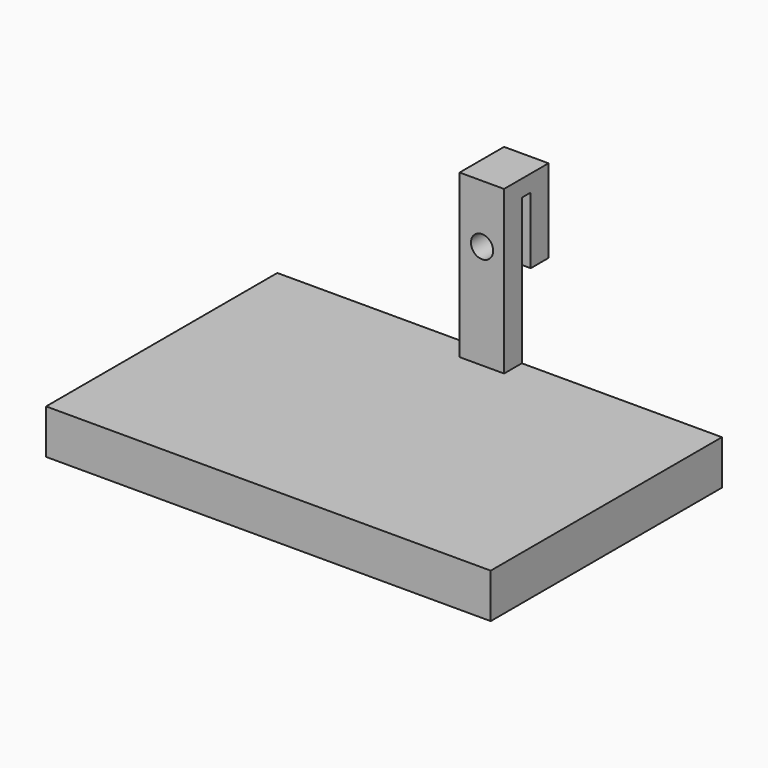
from build123d import *

# Parameters (mm, degrees)
F0_R      = 3.175
F1_DEPTH  = 6.35
F2_DEPTH  = 6.35
F3_DEPTH  = 9.525
F4_W      = 12.7
F4_H      = 6.35
F5_DEPTH  = 19.05
F6_DEPTH  = 25.4
F7_W      = 127
F7_H      = 12.7
F8_DEPTH  = 76.2
F9_W      = 114.3
F9_H      = 69.85
F10_DEPTH = 10.16


with BuildPart() as f1:
    # F0 (on Front) → F1 (new body)
    with BuildSketch(Plane.XZ):
        Polygon((6.288046, 27.041709), (0, 27.041709), (-6.411954, 27.041709), (-6.411954, -14.614291), (-63.561954, -14.614291), (-63.561954, -27.314291), (-6.411954, -27.314291), (6.288046, -27.314291), (63.438046, -27.314291), (63.438046, -14.614291), (6.288046, -14.614291), align=None)
        with Locations((0, 15.235816)):
            Circle(F0_R, mode=Mode.SUBTRACT)
    extrude(amount=F1_DEPTH)

    # F0 (on Front) → F2 (join)
    with BuildSketch(Plane.XZ):
        Polygon((-6.411954, 27.041709), (0, 27.041709), (6.288046, 27.041709), (6.288046, 31.804209), (-6.411954, 31.804209), align=None)
    extrude(amount=F2_DEPTH)

    # F0 (on Front) → F3 (join)
    with BuildSketch(Plane.XZ):
        Polygon((-6.411954, 27.041709), (0, 27.041709), (6.288046, 27.041709), (6.288046, 31.804209), (-6.411954, 31.804209), align=None)
    extrude(amount=-F3_DEPTH)

    # F4 (on face) → F5 (join)
    with BuildSketch(Plane(origin=(0, 0, 27.041709), x_dir=(1, 0, 0), z_dir=(0, 0, -1))):
        with Locations((-0.061954, -6.35)):
            Rectangle(F4_W, F4_H)
    extrude(amount=F5_DEPTH)

    # F0 (on Front) → F6 (cut)
    with BuildSketch(Plane.XZ):
        with Locations((0, 15.235816)):
            Circle(F0_R)
    extrude(amount=-F6_DEPTH, mode=Mode.SUBTRACT)

    # F7 (on face) → F8 (join)
    with BuildSketch(Plane.XZ.offset(6.35)):
        with Locations((-0.061954, -20.964291)):
            Rectangle(F7_W, F7_H)
    extrude(amount=F8_DEPTH)

    # F9 (on face) → F10 (cut)
    with BuildSketch(Plane(origin=(0, 0, -27.314291), x_dir=(1, 0, 0), z_dir=(0, 0, -1))):
        with Locations((-0.061954, 41.275)):
            Rectangle(F9_W, F9_H)
    extrude(amount=-F10_DEPTH, mode=Mode.SUBTRACT)


solid = f1.part
